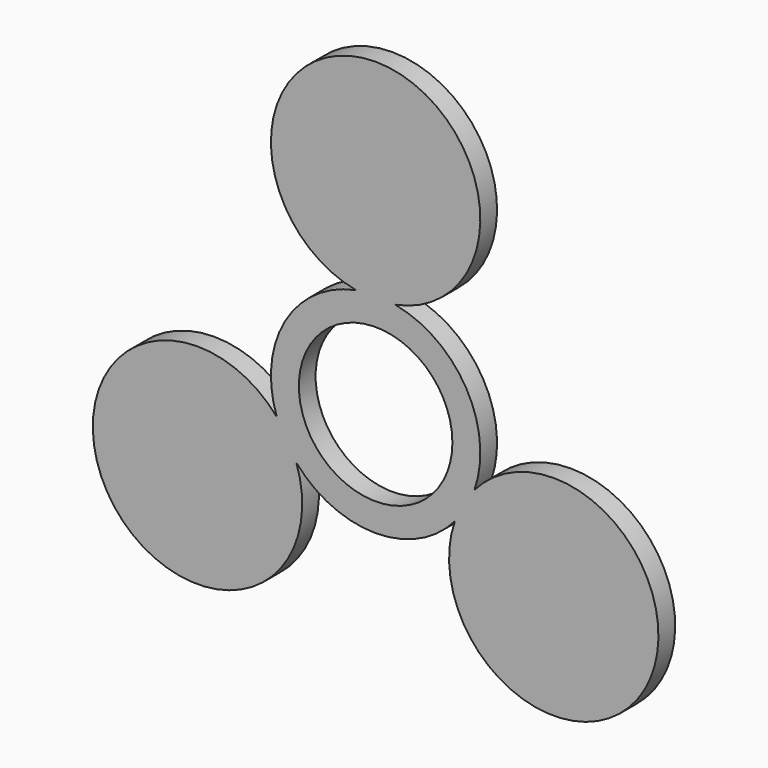
from build123d import *

# Parameters (mm, degrees)
F0_R     = 11
F1_DEPTH = 3


with BuildPart() as f1:
    # F0 (on Front) → F1 (new body)
    with BuildSketch(Plane.XZ):
        with BuildLine():
            ThreePointArc((2.809638, 14.734515), (0, 44.46903), (-2.809638, 14.734515))
            ThreePointArc((-2.809638, 14.734515), (-12.990381, 7.5), (-14.165284, -4.934039))
            ThreePointArc((-14.165284, -4.934039), (-38.51131, -22.234515), (-11.355645, -9.800476))
            ThreePointArc((-11.355645, -9.800476), (0, -15), (11.355645, -9.800476))
            ThreePointArc((11.355645, -9.800476), (38.51131, -22.234515), (14.165284, -4.934039))
            ThreePointArc((14.165284, -4.934039), (12.990381, 7.5), (2.809638, 14.734515))
        make_face()
        Circle(F0_R, mode=Mode.SUBTRACT)
    extrude(amount=F1_DEPTH)


solid = f1.part
